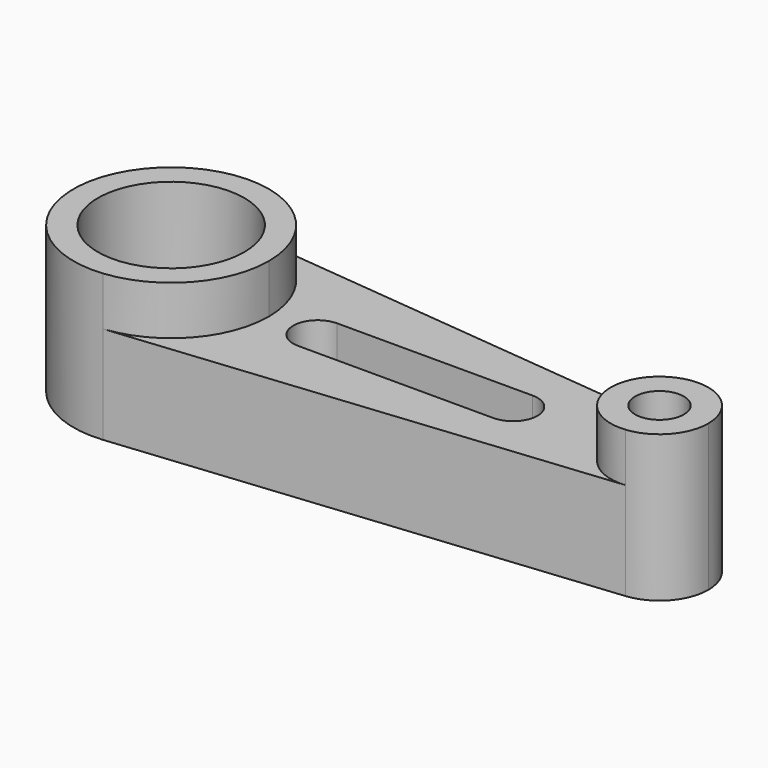
from build123d import *

# Parameters (mm, degrees)
F1_DEPTH = 25.4
F0_R     = 19.05
F0_R_2   = 6.35
F2_DEPTH = 38.1


with BuildPart() as f1:
    # F0 (on Top) → F1 (new body)
    with BuildSketch(Plane.XY):
        with BuildLine():
            ThreePointArc((110.078714, -12.636359), (96.108901, 4.5e-05), (110.078804, 12.63635))
            Line((110.078804, 12.63635), (-15.665499, 25.273153))
            ThreePointArc((-15.665499, 25.273153), (0.631774, 17.039363), (7.194695, 0.000453))
            ThreePointArc((7.194695, 0.000453), (0.631713, -17.038525), (-15.665679, -25.272266))
            Line((-15.665679, -25.272266), (110.078714, -12.636359))
        make_face()
        with BuildLine():
            ThreePointArc((70.708901, 6.35), (75.199029, 4.490128), (77.058901, 0))
            ThreePointArc((77.058901, 0), (75.199029, -4.490128), (70.708901, -6.35))
            Line((70.708901, -6.35), (19.908901, -6.35))
            ThreePointArc((19.908901, -6.35), (13.558901, 0), (19.908901, 6.35))
            Line((19.908901, 6.35), (70.708901, 6.35))
        make_face(mode=Mode.SUBTRACT)
    extrude(amount=F1_DEPTH)

    # F0 (on Top) → F2 (join)
    with BuildSketch(Plane.XY):
        with BuildLine():
            ThreePointArc((7.194695, 0.000453), (0.631774, 17.039363), (-15.665499, 25.273153))
            ThreePointArc((-15.665499, 25.273153), (-43.605305, 0.000543), (-15.665679, -25.272266))
            ThreePointArc((-15.665679, -25.272266), (0.631713, -17.038525), (7.194695, 0.000453))
        make_face()
        with Locations((-18.205305, 0.000453)):
            Circle(F0_R, mode=Mode.SUBTRACT)
        with BuildLine():
            ThreePointArc((110.078714, -12.636359), (118.22741, -8.519489), (121.508901, 0))
            ThreePointArc((121.508901, 0), (118.22744, 8.519455), (110.078804, 12.63635))
            ThreePointArc((110.078804, 12.63635), (96.108901, 4.5e-05), (110.078714, -12.636359))
        make_face()
        with Locations((108.808901, 0)):
            Circle(F0_R_2, mode=Mode.SUBTRACT)
    extrude(amount=F2_DEPTH)


solid = f1.part
